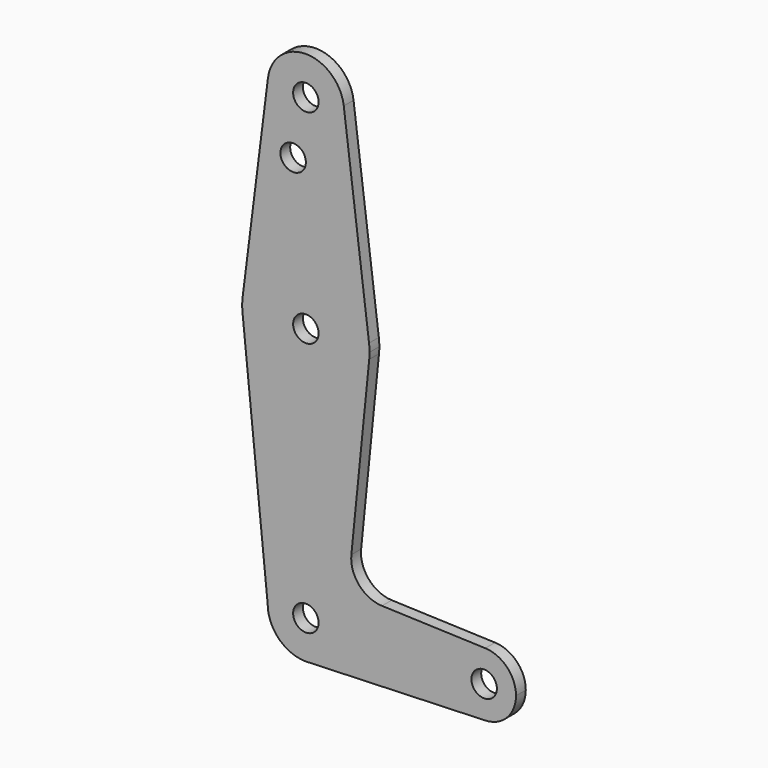
from build123d import *

# Parameters (mm, degrees)
F0_R     = 3.175
F1_DEPTH = 3.048


with BuildPart() as f1:
    # F0 (on Front) → F1 (new body)
    with BuildSketch(Plane.XZ):
        with BuildLine():
            ThreePointArc((0.677344, -9.500886), (6.970557, -6.491299), (9.525, 0))
            ThreePointArc((9.525, 0), (0, 9.525), (-9.525, 0))
            ThreePointArc((-9.525, 0), (-6.735192, -6.735192), (0, -9.525))
            Line((0, -9.525), (0.677344, -9.500886))
        make_face()
        Circle(F0_R, mode=Mode.SUBTRACT)
        with BuildLine():
            ThreePointArc((-9.525, 0), (0, 9.525), (9.525, 0))
            ThreePointArc((9.525, 0), (6.970557, -6.491299), (0.677344, -9.500886))
            Line((0.677344, -9.500886), (44.732405, -7.932475))
            ThreePointArc((44.732405, -7.932475), (36.5125, 0.000539), (44.733482, 7.932436))
            Line((44.733482, 7.932436), (18.9676, 8.853234))
            ThreePointArc((18.9676, 8.853234), (13.2612, 11.571359), (11.341187, 17.593382))
            Line((11.341187, 17.593382), (15.795426, 61.9125))
            ThreePointArc((15.795426, 61.9125), (0.006091, 47.625001), (-15.794203, 61.90038))
            Line((-15.794203, 61.90038), (-9.525, 0))
        make_face()
        with BuildLine():
            ThreePointArc((0, -9.525), (0.338886, -9.51897), (0.677344, -9.500886))
            Line((0.677344, -9.500886), (0, -9.525))
        make_face()
        with BuildLine():
            ThreePointArc((-15.794203, 65.09962), (-15.875, 63.5), (-15.794203, 61.90038))
            ThreePointArc((-15.794203, 61.90038), (0.006091, 47.625001), (15.795426, 61.9125))
            ThreePointArc((15.795426, 61.9125), (15.855094, 62.705253), (15.875, 63.5))
            ThreePointArc((15.875, 63.5), (15.843841, 64.494139), (15.750488, 65.484375))
            ThreePointArc((15.750488, 65.484375), (0.192139, 79.373837), (-15.697842, 65.86503))
            Line((-15.697842, 65.86503), (-15.794203, 65.09962))
        make_face()
        with Locations((0, 63.5)):
            Circle(F0_R, mode=Mode.SUBTRACT)
        with BuildLine():
            ThreePointArc((44.733482, 7.932436), (36.5125, 0.000539), (44.732405, -7.932475))
            ThreePointArc((44.732405, -7.932475), (50.161633, -5.51191), (52.3875, 0))
            ThreePointArc((52.3875, 0), (50.162007, 5.511523), (44.733482, 7.932436))
        make_face()
        with Locations((44.45, 0)):
            Circle(F0_R, mode=Mode.SUBTRACT)
        with BuildLine():
            ThreePointArc((-15.697842, 65.86503), (-15.750673, 65.48291), (-15.794203, 65.09962))
            Line((-15.794203, 65.09962), (-15.697842, 65.86503))
        make_face()
        with BuildLine():
            Line((-9.450404, 115.489746), (-15.697842, 65.86503))
            ThreePointArc((-15.697842, 65.86503), (0.192139, 79.373837), (15.750488, 65.484375))
            Line((15.750488, 65.484375), (9.450293, 115.490625))
            ThreePointArc((9.450293, 115.490625), (9.506305, 114.896483), (9.525, 114.3))
            ThreePointArc((9.525, 114.3), (-0.596041, 104.793667), (-9.450404, 115.489746))
        make_face()
        with Locations((-3.175, 100.0252)):
            Circle(F0_R, mode=Mode.SUBTRACT)
        with BuildLine():
            ThreePointArc((9.450293, 115.490625), (-0.000443, 123.825), (-9.450404, 115.489746))
            ThreePointArc((-9.450404, 115.489746), (-0.596041, 104.793667), (9.525, 114.3))
            ThreePointArc((9.525, 114.3), (9.506305, 114.896483), (9.450293, 115.490625))
        make_face()
        with Locations((0, 114.3)):
            Circle(F0_R, mode=Mode.SUBTRACT)
    extrude(amount=F1_DEPTH)


solid = f1.part
